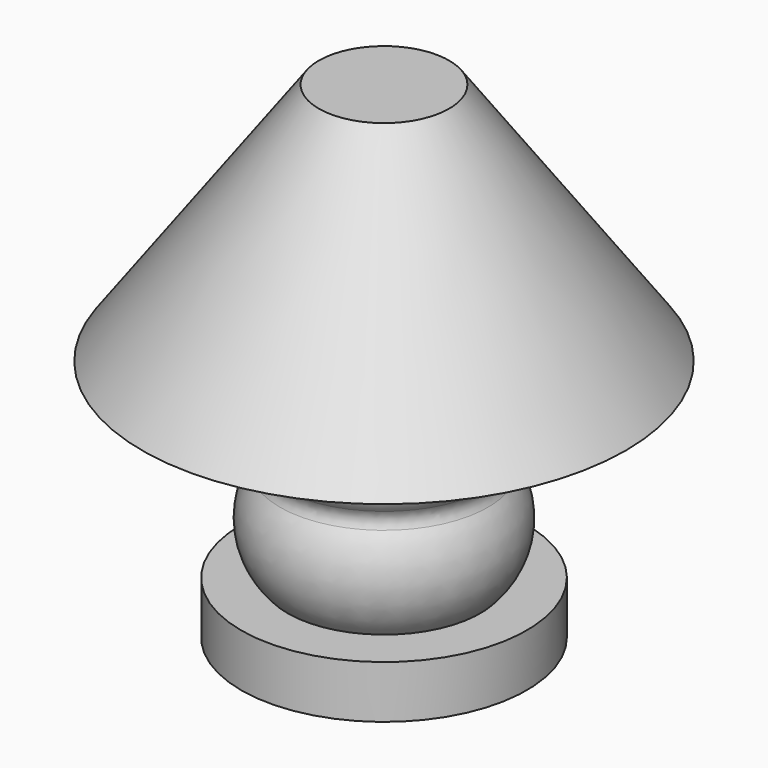
from build123d import *

# Parameters (mm, degrees)
F2_R = 4.45624


with BuildPart() as f1:
    # F0 (on Front) → F1 (revolve)
    with BuildSketch(Plane.XZ):
        with BuildLine():
            Line((0, 76.561294), (-20.495173, 76.561294))
            Line((-20.495173, 76.561294), (-76.068625, 0))
            Line((-76.068625, 0), (-30.334398, 0))
            Line((-30.334398, 0), (-30.334398, -6.934717))
            ThreePointArc((-30.334398, -6.934717), (-35.784843, -16.862957), (-30.334398, -26.791196))
            ThreePointArc((-30.334398, -26.791196), (-36.918705, -43.362655), (-30.334398, -59.934113))
            Line((-30.334398, -59.934113), (-44.917282, -59.934113))
            Line((-44.917282, -59.934113), (-44.917282, -76.505572))
            Line((-44.917282, -76.505572), (0, -76.505572))
            Line((0, -76.505572), (0, 76.561294))
        make_face()
    revolve(axis=Axis((0, 0, 0.027861), (0, 0, -1)))

    # F2
    f2_edges = [f1.edges().sort_by_distance(p)[0] for p in [
        (30.334398, 0, -26.791196),
    ]]
    fillet(f2_edges, radius=F2_R)


solid = f1.part
